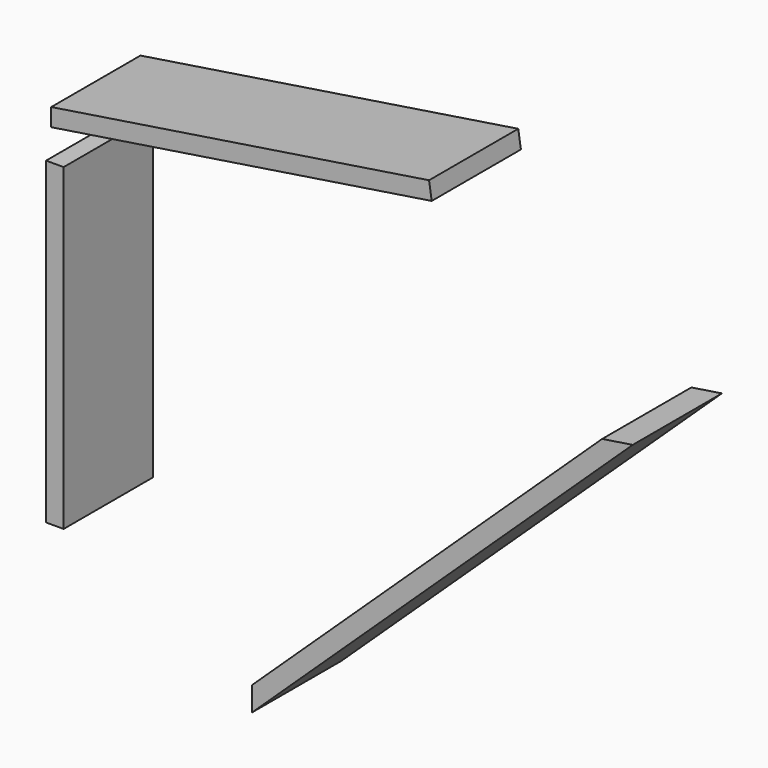
from build123d import *

# Parameters (mm, degrees)
F3_DEPTH = 88.9
F1_W     = 13.9954
F1_H     = 254
F4_DEPTH = 88.9
F5_DEPTH = 88.9


with BuildPart() as f3:
    # F2 (on Front) → F3 (new body)
    with BuildSketch(Plane.XZ):
        Polygon((186.494876, 316.02254), (-114.728962, 269.46892), (-114.728962, 255.302711), (188.633165, 302.186799), align=None)
    extrude(amount=F3_DEPTH)


with BuildPart() as f4:
    # F1 (on Front) → F4 (new body)
    with BuildSketch(Plane.XZ):
        with Locations((-111.850536, 103.510289)):
            Rectangle(F1_W, F1_H)
    extrude(amount=F4_DEPTH)


with BuildPart() as f5:
    # F0 (on Front) → F5 (new body)
    with BuildSketch(Plane.XZ):
        Polygon((45.364792, -103.432538), (348.889265, 183.113473), (324.510112, 179.351234), (45.364792, -84.179338), align=None)
    extrude(amount=F5_DEPTH)


solid = Compound([f3.part, f4.part, f5.part])
